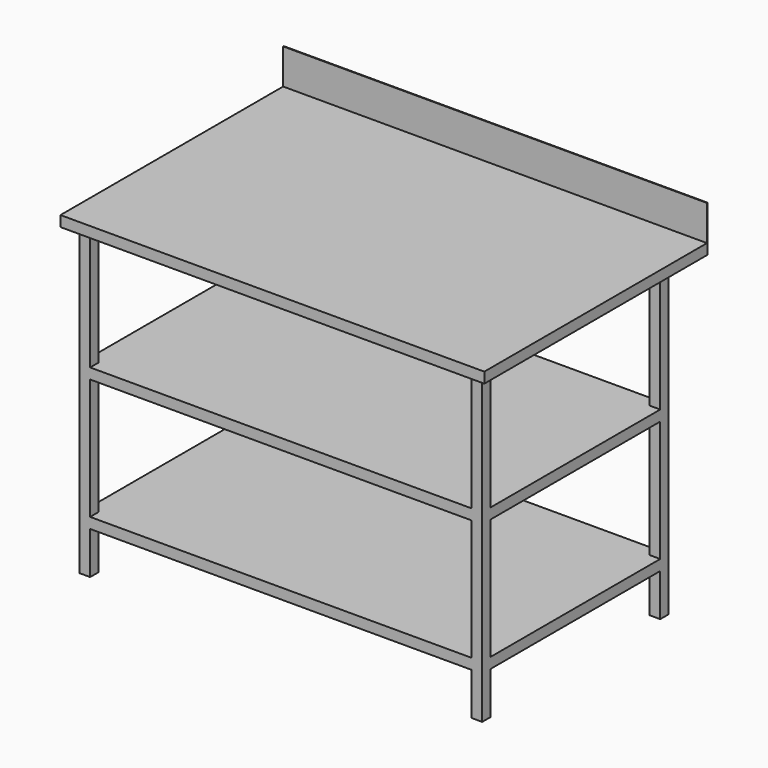
from build123d import *

# Parameters (mm, degrees)
F1_DEPTH      = 1200
F2_W          = 30
F2_H          = 30
F3_DEPTH      = 865
F5_W          = 660
F5_H          = 30
F6_DEPTH      = 1085
F6_DEPTH_BACK = 55
F7_W          = 660
F7_H          = 30
F8_DEPTH      = 1085
F8_DEPTH_BACK = 55


with BuildPart() as f1:
    # F0 (on Right) → F1 (new body)
    with BuildSketch(Plane.YZ):
        Polygon((0, 30), (0, 0), (790, 0), (790, 130), (788, 130), (788, 30), align=None)
    extrude(amount=F1_DEPTH)

    # F2 (on face) → F3 (join)
    with BuildSketch(Plane(origin=(0, 0, 0), x_dir=(1, 0, 0), z_dir=(0, 0, -1))):
        with Locations((45, -45)):
            Rectangle(F2_W, F2_H)
        with Locations((1155, -45)):
            Rectangle(F2_W, F2_H)
        with Locations((1155, -675)):
            Rectangle(F2_W, F2_H)
        with Locations((45, -675)):
            Rectangle(F2_W, F2_H)
    extrude(amount=F3_DEPTH)

    # F5 (on offset) → F6 (join, two sides)
    with BuildSketch(Plane.YZ.offset(85)) as f6_sk:
        with Locations((360, -730)):
            Rectangle(F5_W, F5_H)
    extrude(amount=F6_DEPTH)
    extrude(f6_sk.sketch, amount=-F6_DEPTH_BACK)

    # F7 (on offset) → F8 (join, two sides)
    with BuildSketch(Plane.YZ.offset(85)) as f8_sk:
        with Locations((360, -357.5)):
            Rectangle(F7_W, F7_H)
    extrude(amount=F8_DEPTH)
    extrude(f8_sk.sketch, amount=-F8_DEPTH_BACK)


solid = f1.part
